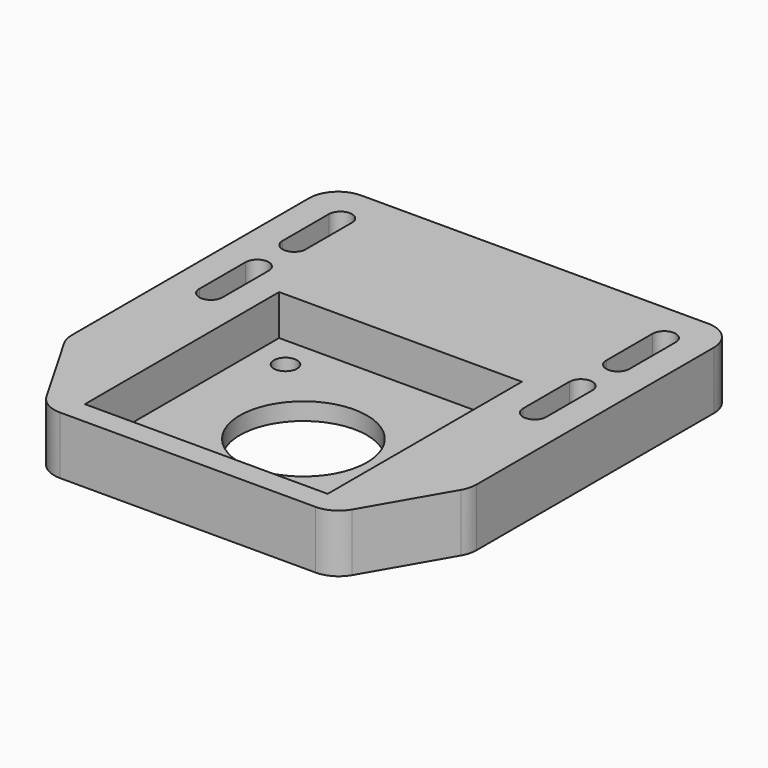
from build123d import *

# Parameters (mm, degrees)
SKETCH023_W                     = 50
SKETCH023_H                     = 50
PAD005_DEPTH                    = 10
SKETCH024_W                     = 42
SKETCH024_H                     = 42
POCKET014_DEPTH                 = 7
SKETCH025_R                     = 11
POCKET015_DEPTH                 = 3.001
SKETCH022_R                     = 2
POCKET016_DEPTH                 = 5
PAD006_DEPTH                    = 10
POCKET017_DEPTH                 = 216.156281
POCKET017_LINEARPATTERN_2_DEPTH = 216.156281
LINEARPATTERN001_COUNT          = 2
LINEARPATTERN001_PITCH          = 18
FILLET002_R                     = 5


with BuildPart() as part:
    # Sketch023 → Pad005 (new body)
    with BuildSketch(Plane.XY):
        Rectangle(SKETCH023_W, SKETCH023_H)
    extrude(amount=PAD005_DEPTH)

    # Sketch024 (on Face6 of Pad005) → Pocket014 (cut)
    with BuildSketch(Plane.XY.offset(10)):
        Rectangle(SKETCH024_W, SKETCH024_H)
    extrude(amount=-POCKET014_DEPTH, mode=Mode.SUBTRACT)

    # Sketch025 (on Face11 of Pocket014) → Pocket015 (cut, through all)
    with BuildSketch(Plane.XY.offset(3)):
        Circle(SKETCH025_R)
    extrude(amount=-POCKET015_DEPTH, mode=Mode.SUBTRACT)

    # Sketch022 → Pocket016 (cut)
    with BuildSketch(Plane.XY.offset(5)):
        with Locations((-15.5, 15.5)):
            Circle(SKETCH022_R)
        with Locations((15.5, 15.5)):
            Circle(SKETCH022_R)
        with Locations((15.5, -15.5)):
            Circle(SKETCH022_R)
        with Locations((-15.5, -15.5)):
            Circle(SKETCH022_R)
    extrude(amount=-POCKET016_DEPTH, mode=Mode.SUBTRACT)

    # Sketch026 → Pad006 (join)
    with BuildSketch(Plane.XY):
        Polygon((-25, 25), (25, 25), (25, -25), (35, -7.679492), (35, 50), (-35, 50), (-35, -7.679492), (-25, -25), align=None)
    extrude(amount=PAD006_DEPTH)

    # Sketch021 → Pocket017 (cut, through all)
    with BuildSketch(Plane.XY):
        with BuildLine():
            ThreePointArc((-30, 15), (-28, 13), (-26, 15))
            Line((-26, 15), (-26, 25))
            ThreePointArc((-26, 25), (-28, 27), (-30, 25))
            Line((-30, 15), (-30, 25))
        make_face()
    pocket017 = extrude(amount=POCKET017_DEPTH, mode=Mode.SUBTRACT)

    # Sketch021 LinearPattern 2 → Pocket017 LinearPattern 2 (cut, through all)
    with BuildSketch(Plane(origin=(56, 0, 0), x_dir=(1, 0, 0), z_dir=(0, 0, 1))):
        with BuildLine():
            ThreePointArc((-30, 15), (-28, 13), (-26, 15))
            Line((-26, 15), (-26, 25))
            ThreePointArc((-26, 25), (-28, 27), (-30, 25))
            Line((-30, 15), (-30, 25))
        make_face()
    pocket017_linearpattern_2 = extrude(amount=POCKET017_LINEARPATTERN_2_DEPTH, mode=Mode.SUBTRACT)

    # LinearPattern001: Pocket017, Pocket017 LinearPattern 2 ×2
    with Locations(*[(0, i * LINEARPATTERN001_PITCH, 0) for i in range(1, LINEARPATTERN001_COUNT)]):
        add(pocket017, mode=Mode.SUBTRACT)
        add(pocket017_linearpattern_2, mode=Mode.SUBTRACT)

    # Fillet002
    fillet002_edges = [part.edges().sort_by_distance(p)[0] for p in [
        (25, -25, 5),
        (35, -7.679492, 5),
        (35, 50, 5),
        (-25, -25, 5),
        (-35, -7.679492, 5),
        (-35, 50, 5),
    ]]
    fillet(fillet002_edges, radius=FILLET002_R)


with BuildPart() as part_1:
    # Body007 placement: moved
    add(part.part.moved(Location((0, 0, 232.808))))


solid = part_1.part
